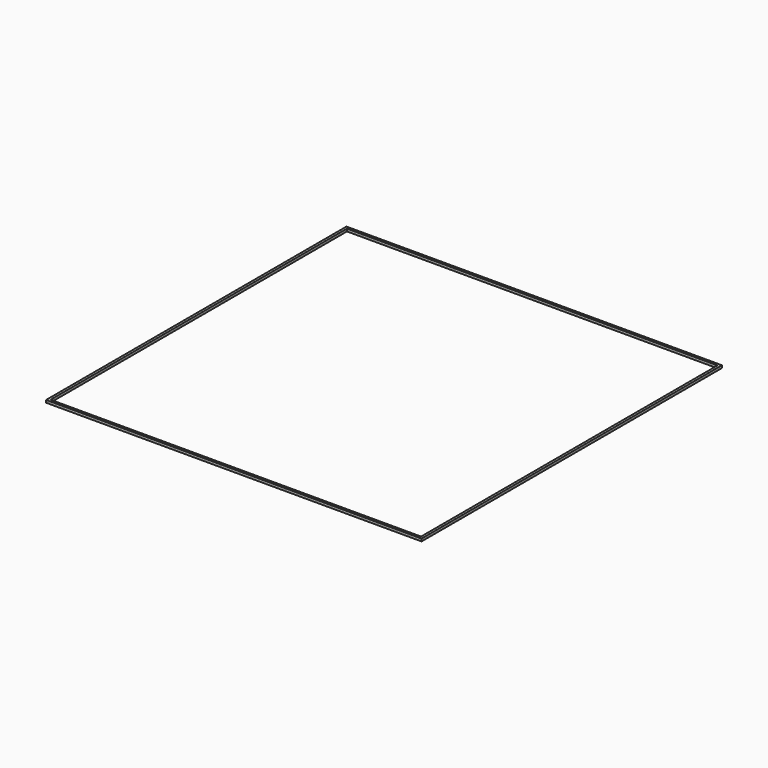
from build123d import *

# Parameters (mm, degrees)
SKETCH_W   = 150
SKETCH_H   = 150
SKETCH_W_2 = 148
SKETCH_H_2 = 148
PAD_DEPTH  = 1


with BuildPart() as part:
    # Sketch → Pad (new body)
    with BuildSketch(Plane.XY):
        with Locations((75, 75)):
            Rectangle(SKETCH_W, SKETCH_H)
        with Locations((75, 75)):
            Rectangle(SKETCH_W_2, SKETCH_H_2, mode=Mode.SUBTRACT)
    extrude(amount=PAD_DEPTH)


solid = part.part
